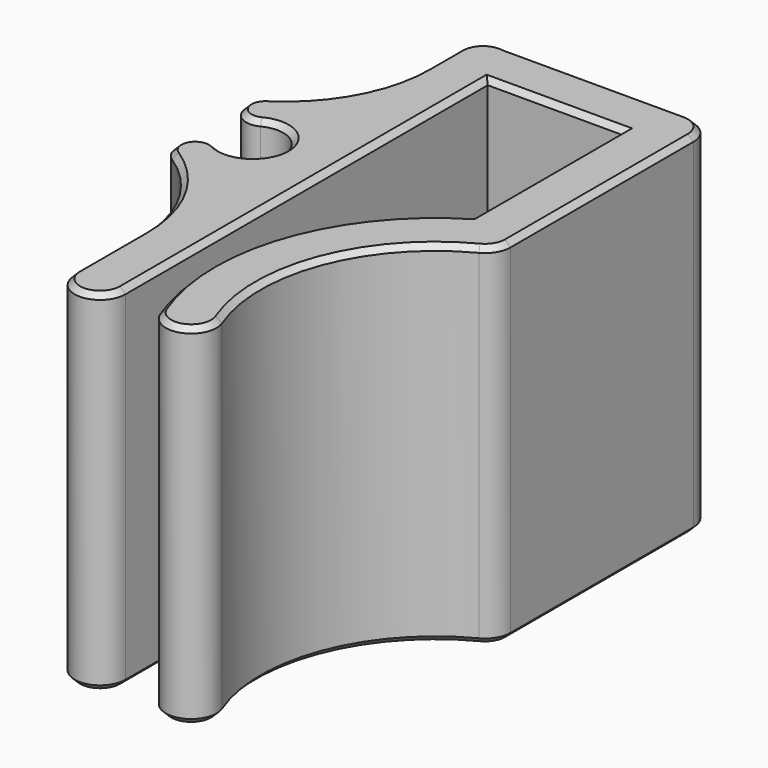
from build123d import *

# Parameters (mm, degrees)
F1_DEPTH = 13
F2_SIZE  = 0.2


with BuildPart() as f1:
    # F0 (on Top) → F1 (new body)
    with BuildSketch(Plane.XY):
        with BuildLine():
            ThreePointArc((-1.8816, -16.819208), (-0.9408, -17.760008), (0, -16.819208))
            Line((0, -16.819208), (0, 0))
            Line((0, 0), (5, 0))
            Line((5, 0), (5, -7))
            ThreePointArc((5, -7), (1.440063, -11.456932), (1.566748, -17.159682))
            ThreePointArc((1.566748, -17.159682), (2.784253, -17.696238), (3.320809, -16.478734))
            ThreePointArc((3.320809, -16.478734), (3.298597, -11.846796), (6.374464, -8.383506))
            ThreePointArc((6.374464, -8.383506), (6.744882, -8.037039), (6.8816, -7.548616))
            Line((6.8816, -7.548616), (6.8816, 0.9408))
            ThreePointArc((6.8816, 0.9408), (6.606046, 1.606046), (5.9408, 1.8816))
            Line((5.9408, 1.8816), (-0.779544, 1.8816))
            ThreePointArc((-0.779544, 1.8816), (-1.546355, 1.674728), (-1.8816, 0.954723))
            Line((-1.8816, 0.954723), (-1.8816, -0.573602))
            ThreePointArc((-1.8816, -0.573602), (-2.508632, -3.043383), (-4.237854, -4.914955))
            ThreePointArc((-4.237854, -4.914955), (-4.464092, -5.866265), (-3.524931, -6.13857))
            ThreePointArc((-3.524931, -6.13857), (-1.8816, -7.137048), (-3.524931, -8.135526))
            ThreePointArc((-3.524931, -8.135526), (-4.464092, -8.407832), (-4.237854, -9.359142))
            ThreePointArc((-4.237854, -9.359142), (-2.508632, -11.230713), (-1.8816, -13.700494))
            Line((-1.8816, -13.700494), (-1.8816, -16.819208))
        make_face()
    extrude(amount=F1_DEPTH)

    # F2
    f2_edges = [f1.edges().sort_by_distance(p)[0] for p in [
        (-2.508632, -11.230713, 0),
        (-1.8816, -15.259851, 0),
        (-0.9408, -17.760008, 0),
        (0, -8.409604, 0),
        (2.5, 0, 0),
        (5, -3.5, 0),
        (1.440063, -11.456932, 0),
        (2.784253, -17.696238, 0),
        (3.298597, -11.846796, 0),
        (6.744882, -8.037039, 0),
        (6.8816, -3.303908, 0),
        (6.606046, 1.606046, 0),
        (2.580628, 1.8816, 0),
        (-1.546355, 1.674728, 0),
        (-1.8816, 0.19056, 0),
        (-2.508632, -3.043383, 0),
        (-4.464092, -5.866265, 0),
        (-1.8816, -7.137048, 0),
        (-4.464092, -8.407832, 0),
        (-2.508632, -11.230713, 13),
        (-1.8816, -15.259851, 13),
        (-0.9408, -17.760008, 13),
        (0, -8.409604, 13),
        (2.5, 0, 13),
        (5, -3.5, 13),
        (1.440063, -11.456932, 13),
        (2.784253, -17.696238, 13),
        (3.298597, -11.846796, 13),
        (6.744882, -8.037039, 13),
        (6.8816, -3.303908, 13),
        (6.606046, 1.606046, 13),
        (2.580628, 1.8816, 13),
        (-1.546355, 1.674728, 13),
        (-1.8816, 0.19056, 13),
        (-2.508632, -3.043383, 13),
        (-4.464092, -5.866265, 13),
        (-1.8816, -7.137048, 13),
        (-4.464092, -8.407832, 13),
    ]]
    chamfer(f2_edges, length=F2_SIZE)


solid = f1.part
